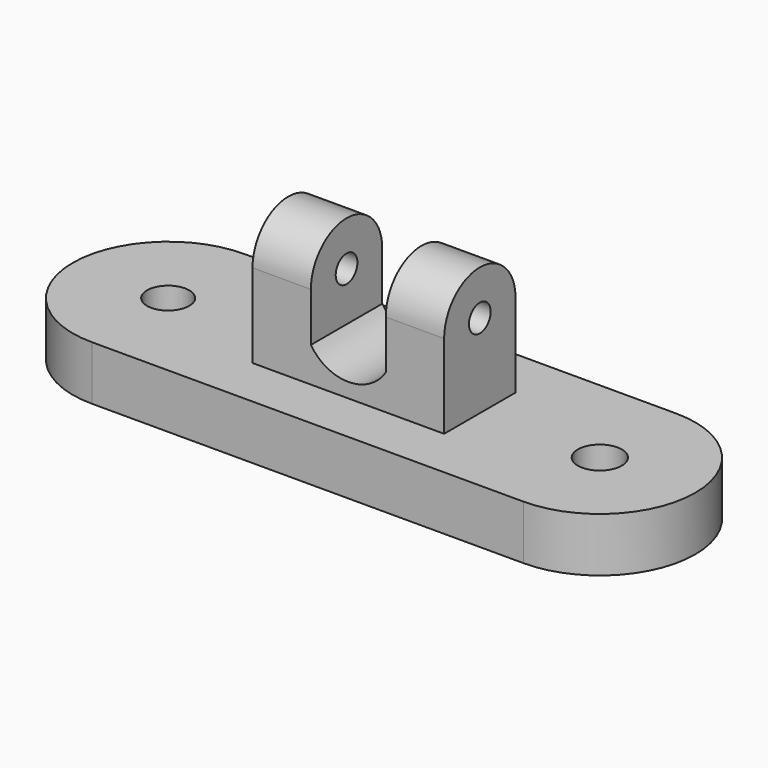
from build123d import *

# Parameters (mm, degrees)
F0_R     = 14.946104
F0_R_2   = 15.580655
F1_DEPTH = 38.354
F2_R     = 9.594843
F3_DEPTH = 67.818
F5_DEPTH = 58.928


with BuildPart() as f1:
    # F0 (on Top) → F1 (new body)
    with BuildSketch(Plane.XY):
        with BuildLine():
            ThreePointArc((152.780443, -67.56109), (220.341533, 0), (152.780443, 67.56109))
            Line((152.780443, 67.56109), (-152.780443, 67.56109))
            ThreePointArc((-152.780443, 67.56109), (-220.341533, 0), (-152.780443, -67.56109))
            Line((-152.780443, -67.56109), (152.780443, -67.56109))
        make_face()
        with Locations((-152.780443, 0)):
            Circle(F0_R, mode=Mode.SUBTRACT)
        with Locations((152.780443, 0)):
            Circle(F0_R_2, mode=Mode.SUBTRACT)
    extrude(amount=F1_DEPTH)

    # F2 (on Right) → F3 (join, symmetric)
    with BuildSketch(Plane.YZ):
        with BuildLine():
            ThreePointArc((31.568192, 97.693309), (0, 129.261501), (-31.568192, 97.693309))
            Line((-31.568192, 97.693309), (-31.568192, 38.354))
            Line((-31.568192, 38.354), (31.568192, 38.354))
            Line((31.568192, 38.354), (31.568192, 97.693309))
        make_face()
        with Locations((0, 97.693309)):
            Circle(F2_R, mode=Mode.SUBTRACT)
    extrude(amount=F3_DEPTH, both=True)

    # F4 (on Front) → F5 (cut, symmetric)
    with BuildSketch(Plane.XZ):
        with BuildLine():
            Line((26.493635, 63.081741), (26.493635, 133.099258))
            Line((26.493635, 133.099258), (-26.493635, 133.099258))
            Line((-26.493635, 133.099258), (-26.493635, 63.081741))
            ThreePointArc((-26.493635, 63.081741), (0, 48.626888), (26.493635, 63.081741))
        make_face()
    extrude(amount=F5_DEPTH, both=True, mode=Mode.SUBTRACT)


solid = f1.part
